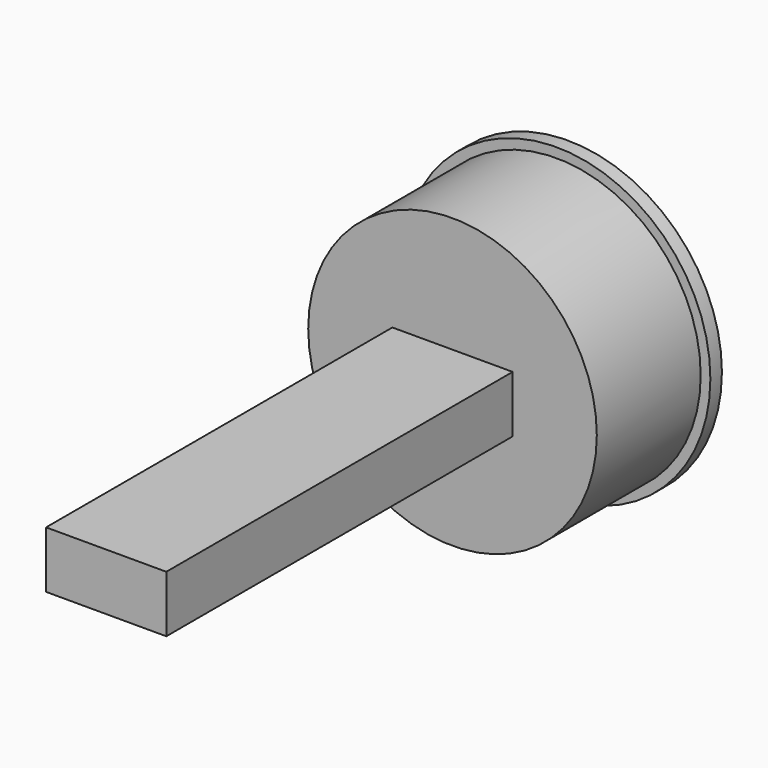
from build123d import *

# Parameters (mm, degrees)
F0_R     = 25.4
F1_DEPTH = 25.4
F2_W     = 21.16544
F2_H     = 10.00125
F3_DEPTH = 101.6
F4_R     = 27.102651
F5_DEPTH = 2.54


with BuildPart() as f1:
    # F0 (on Front) → F1 (new body)
    with BuildSketch(Plane.XZ):
        Circle(F0_R)
    extrude(amount=F1_DEPTH)

    # F2 (on Front) → F3 (join)
    with BuildSketch(Plane.XZ):
        Rectangle(F2_W, F2_H)
    extrude(amount=F3_DEPTH)

    # F4 (on Front) → F5 (join)
    with BuildSketch(Plane.XZ):
        Circle(F4_R)
    extrude(amount=F5_DEPTH)


solid = f1.part
